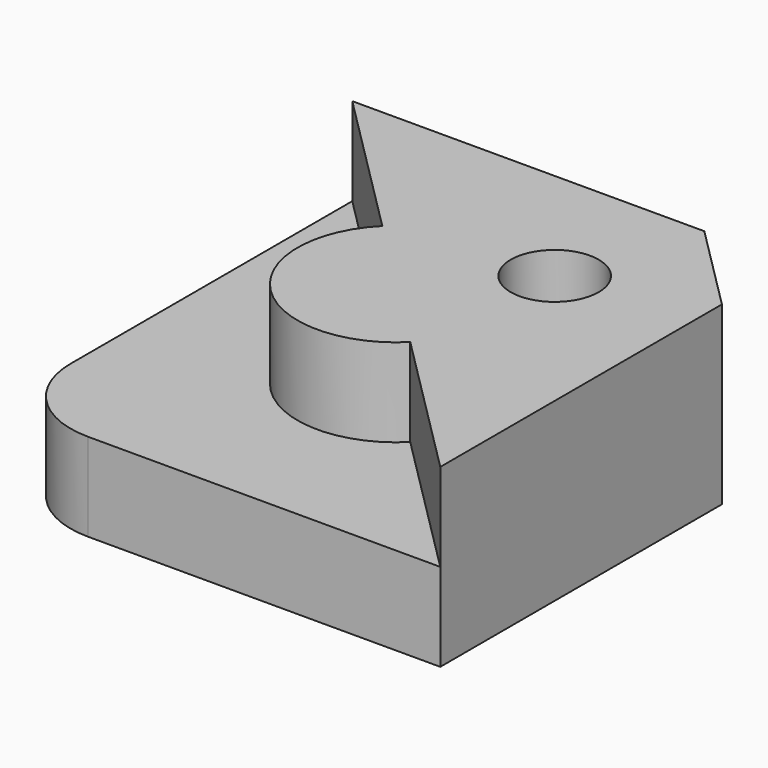
from build123d import *

# Parameters (mm, degrees)
F0_W     = 25
F0_H     = 25
F1_DEPTH = 5
F3_DEPTH = 5
F4_R     = 5
F5_SIZE  = 5
F7_DEPTH = 5
F8_R     = 2.5
F9_DEPTH = 10.001


with BuildPart() as f1:
    # F0 (on Top) → F1 (new body)
    with BuildSketch(Plane.XY):
        Rectangle(F0_W, F0_H)
    extrude(amount=F1_DEPTH)

    # F2 (on face) → F3 (join)
    with BuildSketch(Plane.XY.offset(5)):
        Polygon((12.5, 12.5), (-12.5, 12.5), (12.5, -12.5), align=None)
    extrude(amount=F3_DEPTH)

    # F4
    f4_edges = [f1.edges().sort_by_distance(p)[0] for p in [
        (-12.5, -12.5, 2.5),
    ]]
    fillet(f4_edges, radius=F4_R)

    # F5
    f5_edges = [f1.edges().sort_by_distance(p)[0] for p in [
        (12.5, 12.5, 5),
    ]]
    chamfer(f5_edges, length=F5_SIZE)

    # F6 (on face) → F7 (join)
    with BuildSketch(Plane.XY.offset(5)):
        with BuildLine():
            Line((3.9644660941, -3.9644660941), (-3.9644660941, 3.9644660941))
            ThreePointArc((-3.9644660941, 3.9644660941), (-3.9644660941, -3.9644660941), (3.9644660941, -3.9644660941))
        make_face()
    extrude(amount=F7_DEPTH)

    # F8 (on face) → F9 (cut, through all)
    with BuildSketch(Plane.XY.offset(10)):
        with Locations((5, 5)):
            Circle(F8_R)
    extrude(amount=-F9_DEPTH, mode=Mode.SUBTRACT)


solid = f1.part
